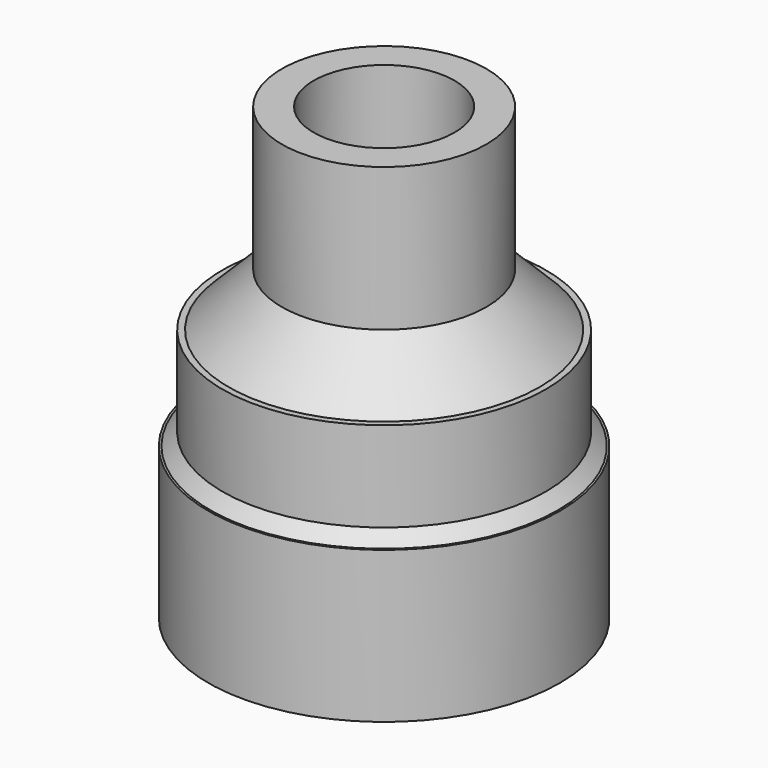
from build123d import *

# Parameters (mm, degrees)
CYLINDER006_R     = 33
CYLINDER006_DEPTH = 26
CYLINDER005_R     = 35
CYLINDER005_DEPTH = 37
CYLINDER004_R     = 17.2
CYLINDER004_DEPTH = 63
CYLINDER001_R     = 39.5
CYLINDER001_DEPTH = 26
CYLINDER_R        = 43
CYLINDER_DEPTH    = 37
CYLINDER003_R     = 25
CYLINDER003_DEPTH = 49
CHAMFER_SIZE      = 13
CHAMFER001_SIZE   = 3


with BuildPart() as cylinder006:
    # Cylinder006 → Cylinder006 (new body)
    with BuildSketch(Plane.XY.offset(36)):
        Circle(CYLINDER006_R)
    extrude(amount=CYLINDER006_DEPTH)


with BuildPart() as cylinder005:
    # Cylinder005 → Cylinder005 (new body)
    with BuildSketch(Plane.XY):
        Circle(CYLINDER005_R)
    extrude(amount=CYLINDER005_DEPTH)


with BuildPart() as cylinder004:
    # Cylinder004 → Cylinder004 (new body)
    with BuildSketch(Plane.XY.offset(61)):
        Circle(CYLINDER004_R)
    extrude(amount=CYLINDER004_DEPTH)


with BuildPart() as cylinder001:
    # Cylinder001 → Cylinder001 (new body)
    with BuildSketch(Plane.XY.offset(36)):
        Circle(CYLINDER001_R)
    extrude(amount=CYLINDER001_DEPTH)


with BuildPart() as fusion003:
    # Cylinder → Cylinder (new body)
    with BuildSketch(Plane.XY):
        Circle(CYLINDER_R)
    extrude(amount=CYLINDER_DEPTH)

    # Fusion003: union Cylinder001
    add(cylinder001.part)


with BuildPart() as chamfer001:
    # Cylinder003 → Cylinder003 (new body)
    with BuildSketch(Plane.XY.offset(61)):
        Circle(CYLINDER003_R)
    extrude(amount=CYLINDER003_DEPTH)

    # Fusion002: union Fusion003
    add(fusion003.part)


with BuildPart() as chamfer001_1:
    # Fusion002 placement: moved
    add(chamfer001.part.moved(Location((0, 0, 4))))

    # Cut: cut Cylinder004
    add(cylinder004.part, mode=Mode.SUBTRACT)

    # Cut001: cut Cylinder005
    add(cylinder005.part, mode=Mode.SUBTRACT)

    # Cut002: cut Cylinder006
    add(cylinder006.part, mode=Mode.SUBTRACT)

    # Chamfer
    chamfer_edges = [chamfer001_1.edges().sort_by_distance(p)[0] for p in [
        (-25, 0, 66),
    ]]
    chamfer(chamfer_edges, length=CHAMFER_SIZE)

    # Chamfer001
    chamfer001_edges = [chamfer001_1.edges().sort_by_distance(p)[0] for p in [
        (-39.5, 0, 41),
    ]]
    chamfer(chamfer001_edges, length=CHAMFER001_SIZE)


solid = chamfer001_1.part
